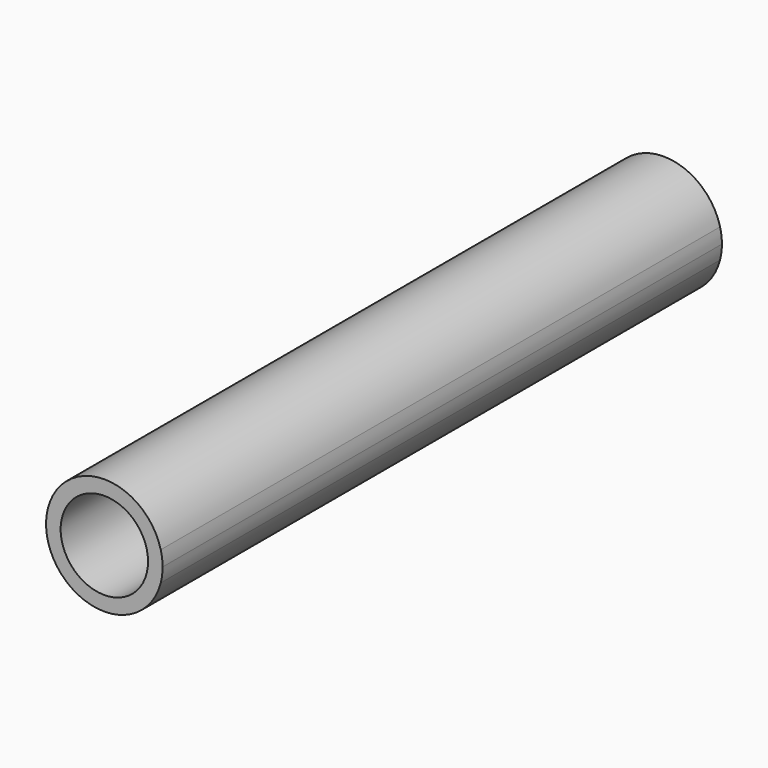
from build123d import *

# Parameters (mm, degrees)
F0_R     = 1.190625
F1_DEPTH = 19.05


with BuildPart() as f1:
    # F0 (on Front) → F1 (new body)
    with BuildSketch(Plane.XZ):
        with BuildLine():
            ThreePointArc((1.5875, 0), (1.574847, 0.200032), (1.53709, 0.396875))
            ThreePointArc((1.53709, 0.396875), (0, 1.5875), (-1.53709, 0.396875))
            ThreePointArc((-1.53709, 0.396875), (-1.574847, 0.200032), (-1.5875, 0))
            ThreePointArc((-1.5875, 0), (-1.574847, -0.200032), (-1.53709, -0.396875))
            ThreePointArc((-1.53709, -0.396875), (0, -1.5875), (1.53709, -0.396875))
            ThreePointArc((1.53709, -0.396875), (1.574847, -0.200032), (1.5875, 0))
        make_face()
        Circle(F0_R, mode=Mode.SUBTRACT)
    extrude(amount=F1_DEPTH)


solid = f1.part
